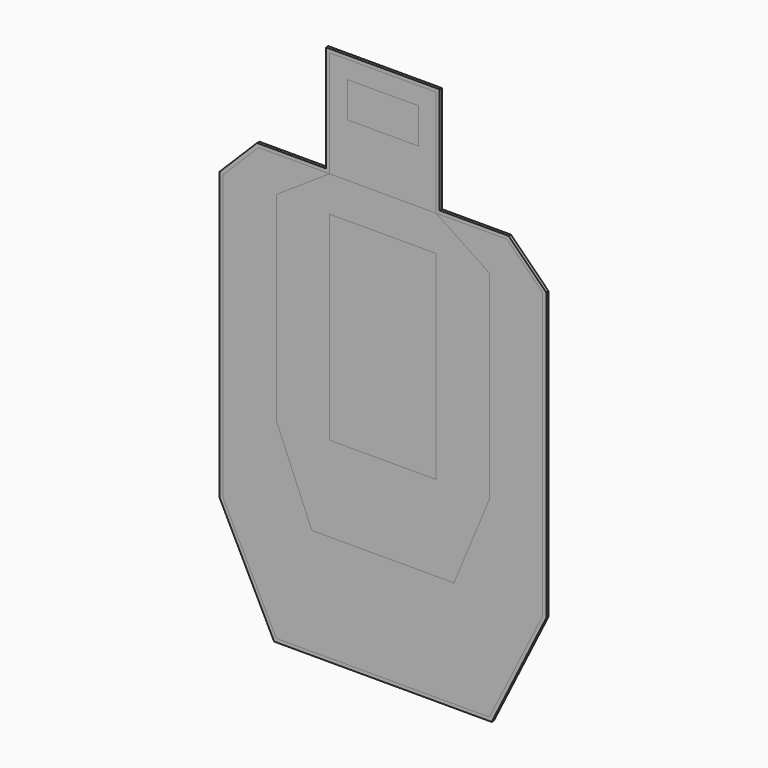
from build123d import *

# Parameters (mm, degrees)
F1_DEPTH  = 3
F2_W      = 150
F2_H      = 150
F3_DEPTH  = 3
F4_W      = 150
F4_H      = 280
F5_DEPTH  = 3
F6_W      = 150
F6_H      = 280
F7_DEPTH  = 3
F9_DEPTH  = 3
F11_DEPTH = 3
F13_DEPTH = 1
F15_DEPTH = 1


with BuildPart() as f1:
    # F0 (on Front) → F1 (new body)
    with BuildSketch(Plane.XZ):
        Polygon((50, 125), (0, 125), (-50, 125), (-50, 100), (-50, 75), (0, 75), (50, 75), (50, 100), align=None)
    extrude(amount=-F1_DEPTH)


with BuildPart() as f3:
    # F2 (on Front) → F3 (new body)
    with BuildSketch(Plane.XZ):
        with Locations((0, 75)):
            Rectangle(F2_W, F2_H)
        Polygon((-50, 125), (0, 125), (50, 125), (50, 100), (50, 75), (0, 75), (-50, 75), (-50, 100), align=None, mode=Mode.SUBTRACT)
    extrude(amount=-F3_DEPTH)


with BuildPart() as f5:
    # F4 (on Front) → F5 (new body)
    with BuildSketch(Plane.XZ):
        with Locations((0, -190)):
            Rectangle(F4_W, F4_H)
    extrude(amount=-F5_DEPTH)


with BuildPart() as f7:
    # F6 (on Front) → F7 (new body)
    with BuildSketch(Plane.XZ):
        Polygon((75, 0), (-75, 0), (-150, -50), (-150, -330), (-100, -450), (100, -450), (150, -330), (150, -50), align=None)
        with Locations((0, -190)):
            Rectangle(F6_W, F6_H, mode=Mode.SUBTRACT)
    extrude(amount=-F7_DEPTH)


with BuildPart() as f9:
    # F8 (on face) → F9 (new body)
    with BuildSketch(Plane.XZ):
        Polygon((175, 0), (75, 0), (150, -50), (150, -330), (100, -450), (-100, -450), (-150, -330), (-150, -50), (-75, 0), (-175, 0), (-225, -50), (-225, -450), (-150, -600), (150, -600), (225, -450), (225, -50), align=None)
    extrude(amount=-F9_DEPTH)


with BuildPart() as f11:
    # F10 (on face) → F11 (new body)
    with BuildSketch(Plane.XZ):
        Polygon((230, -47.928932), (177.071068, 5), (80, 5), (80, 155), (-80, 155), (-80, 5), (-177.071068, 5), (-230, -47.928932), (-230, -451.18034), (-153.09017, -605), (153.09017, -605), (230, -451.18034), align=None)
        Polygon((-75, 150), (75, 150), (75, 0), (175, 0), (225, -50), (225, -450), (150, -600), (-150, -600), (-225, -450), (-225, -50), (-175, 0), (-75, 0), align=None, mode=Mode.SUBTRACT)
    extrude(amount=-F11_DEPTH)


with BuildPart() as f13:
    # F12 (on face) → F13 (new body)
    with BuildSketch(Plane(origin=(0, 3, 0), x_dir=(-1, 0, 0), z_dir=(0, 1, 0))):
        Polygon((75, 0), (75, 150), (-75, 150), (-75, 0), (-175, 0), (-225, -50), (-225, -450), (-150, -600), (150, -600), (225, -450), (225, -50), (175, 0), align=None)
    extrude(amount=F13_DEPTH)


with BuildPart() as f15:
    # F14 (on face) → F15 (new body)
    with BuildSketch(Plane(origin=(0, 4, 0), x_dir=(-1, 0, 0), z_dir=(0, 1, 0))):
        Polygon((80, 155), (-80, 155), (-80, 5), (-177.071068, 5), (-230, -47.928932), (-230, -451.18034), (-153.09017, -605), (153.09017, -605), (230, -451.18034), (230, -47.928932), (177.071068, 5), (80, 5), align=None)
        Polygon((-75, 0), (-75, 150), (75, 150), (75, 0), (175, 0), (225, -50), (225, -450), (150, -600), (-150, -600), (-225, -450), (-225, -50), (-175, 0), align=None, mode=Mode.SUBTRACT)
    extrude(amount=-F15_DEPTH)


solid = Compound([f1.part, f3.part, f5.part, f7.part, f9.part, f11.part, f13.part, f15.part])
